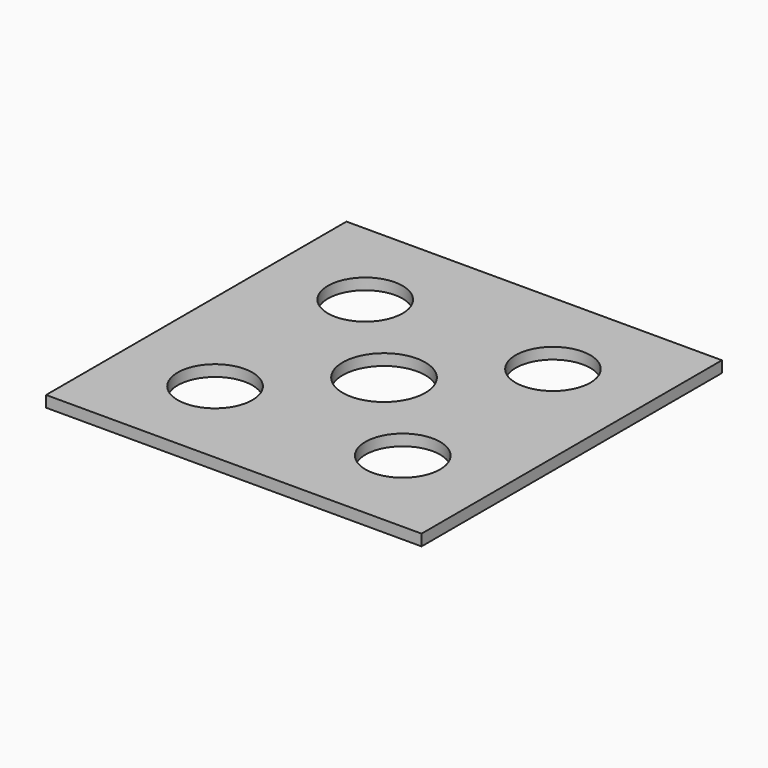
from build123d import *

# Parameters (mm, degrees)
F0_R     = 9.95
F0_R_2   = 11
F1_DEPTH = 3


with BuildPart() as f1:
    # F0 (on Top) → F1 (new body)
    with BuildSketch(Plane.XY):
        Polygon((50, 50), (0, 50), (-50, 50), (-50, -50), (50, -50), align=None)
        with Locations((-25, -25)):
            Circle(F0_R, mode=Mode.SUBTRACT)
        with Locations((25, -25)):
            Circle(F0_R, mode=Mode.SUBTRACT)
        with Locations((-25, 25)):
            Circle(F0_R, mode=Mode.SUBTRACT)
        Circle(F0_R_2, mode=Mode.SUBTRACT)
        with Locations((25, 25)):
            Circle(F0_R, mode=Mode.SUBTRACT)
    extrude(amount=F1_DEPTH)


solid = f1.part
